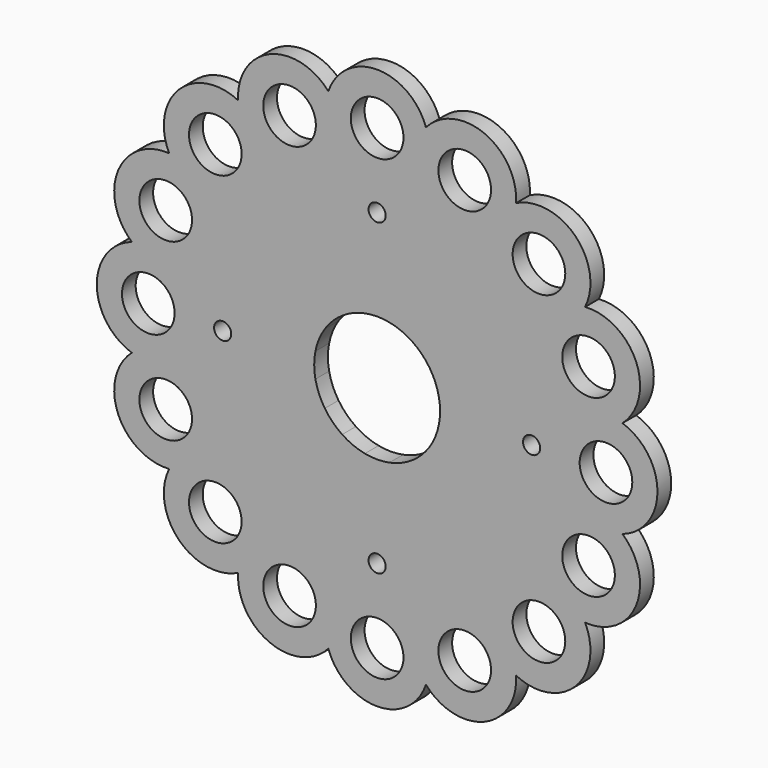
from build123d import *

# Parameters (mm, degrees)
F0_R     = 4.6
F0_R_2   = 1.5
F1_DEPTH = 3


with BuildPart() as f1:
    # F0 (on Front) → F1 (new body)
    with BuildSketch(Plane.XZ):
        with BuildLine():
            ThreePointArc((24.286818, 36.347792), (18.751488, 45.270097), (8.528396, 42.875144))
            ThreePointArc((8.528396, 42.875144), (0, 49), (-8.528396, 42.875144))
            ThreePointArc((-8.528396, 42.875144), (-18.751488, 45.270097), (-24.286818, 36.347792))
            ThreePointArc((-24.286818, 36.347792), (-34.648232, 34.648232), (-36.347792, 24.286818))
            ThreePointArc((-36.347792, 24.286818), (-45.270097, 18.751488), (-42.875144, 8.528396))
            ThreePointArc((-42.875144, 8.528396), (-49, 0), (-42.875144, -8.528396))
            ThreePointArc((-42.875144, -8.528396), (-45.270097, -18.751488), (-36.347792, -24.286818))
            ThreePointArc((-36.347792, -24.286818), (-34.648232, -34.648232), (-24.286818, -36.347792))
            ThreePointArc((-24.286818, -36.347792), (-18.751488, -45.270097), (-8.528396, -42.875144))
            ThreePointArc((-8.528396, -42.875144), (0, -49), (8.528396, -42.875144))
            ThreePointArc((8.528396, -42.875144), (18.751488, -45.270097), (24.286818, -36.347792))
            ThreePointArc((24.286818, -36.347792), (34.648232, -34.648232), (36.347792, -24.286818))
            ThreePointArc((36.347792, -24.286818), (45.270097, -18.751488), (42.875144, -8.528396))
            ThreePointArc((42.875144, -8.528396), (49, 0), (42.875144, 8.528396))
            ThreePointArc((42.875144, 8.528396), (45.270097, 18.751488), (36.347792, 24.286818))
            ThreePointArc((36.347792, 24.286818), (34.648232, 34.648232), (24.286818, 36.347792))
        make_face()
        with Locations((-28.284271, -28.284271)):
            Circle(F0_R, mode=Mode.SUBTRACT)
        with Locations((-15.307337, -36.955181)):
            Circle(F0_R, mode=Mode.SUBTRACT)
        with Locations((0, -40)):
            Circle(F0_R, mode=Mode.SUBTRACT)
        with Locations((0, -27)):
            Circle(F0_R_2, mode=Mode.SUBTRACT)
        with Locations((-36.955181, -15.307337)):
            Circle(F0_R, mode=Mode.SUBTRACT)
        with Locations((-40, 0)):
            Circle(F0_R, mode=Mode.SUBTRACT)
        with Locations((-27, 0)):
            Circle(F0_R_2, mode=Mode.SUBTRACT)
        with BuildLine():
            ThreePointArc((-2.145994, 10.788638), (0, 11), (2.145994, 10.788638))
            ThreePointArc((2.145994, 10.788638), (4.209518, 10.162675), (6.111273, 9.146166))
            ThreePointArc((6.111273, 9.146166), (7.778175, 7.778175), (9.146166, 6.111273))
            ThreePointArc((9.146166, 6.111273), (10.162675, 4.209518), (10.788638, 2.145994))
            ThreePointArc((10.788638, 2.145994), (11, 0), (10.788638, -2.145994))
            ThreePointArc((10.788638, -2.145994), (10.162675, -4.209518), (9.146166, -6.111273))
            ThreePointArc((9.146166, -6.111273), (7.778175, -7.778175), (6.111273, -9.146166))
            ThreePointArc((6.111273, -9.146166), (4.209518, -10.162675), (2.145994, -10.788638))
            ThreePointArc((2.145994, -10.788638), (0, -11), (-2.145994, -10.788638))
            ThreePointArc((-2.145994, -10.788638), (-4.209518, -10.162675), (-6.111273, -9.146166))
            ThreePointArc((-6.111273, -9.146166), (-7.778175, -7.778175), (-9.146166, -6.111273))
            ThreePointArc((-9.146166, -6.111273), (-10.162675, -4.209518), (-10.788638, -2.145994))
            ThreePointArc((-10.788638, -2.145994), (-11, 0), (-10.788638, 2.145994))
            ThreePointArc((-10.788638, 2.145994), (-10.162675, 4.209518), (-9.146166, 6.111273))
            ThreePointArc((-9.146166, 6.111273), (-7.778175, 7.778175), (-6.111273, 9.146166))
            ThreePointArc((-6.111273, 9.146166), (-4.209518, 10.162675), (-2.145994, 10.788638))
        make_face(mode=Mode.SUBTRACT)
        with Locations((15.307337, -36.955181)):
            Circle(F0_R, mode=Mode.SUBTRACT)
        with Locations((28.284271, -28.284271)):
            Circle(F0_R, mode=Mode.SUBTRACT)
        with Locations((36.955181, -15.307337)):
            Circle(F0_R, mode=Mode.SUBTRACT)
        with Locations((27, 0)):
            Circle(F0_R_2, mode=Mode.SUBTRACT)
        with Locations((40, 0)):
            Circle(F0_R, mode=Mode.SUBTRACT)
        with Locations((-36.955181, 15.307337)):
            Circle(F0_R, mode=Mode.SUBTRACT)
        with Locations((-28.284271, 28.284271)):
            Circle(F0_R, mode=Mode.SUBTRACT)
        with Locations((0, 27)):
            Circle(F0_R_2, mode=Mode.SUBTRACT)
        with Locations((-15.307337, 36.955181)):
            Circle(F0_R, mode=Mode.SUBTRACT)
        with Locations((0, 40)):
            Circle(F0_R, mode=Mode.SUBTRACT)
        with Locations((36.955181, 15.307337)):
            Circle(F0_R, mode=Mode.SUBTRACT)
        with Locations((15.307337, 36.955181)):
            Circle(F0_R, mode=Mode.SUBTRACT)
        with Locations((28.284271, 28.284271)):
            Circle(F0_R, mode=Mode.SUBTRACT)
    extrude(amount=F1_DEPTH)


solid = f1.part
